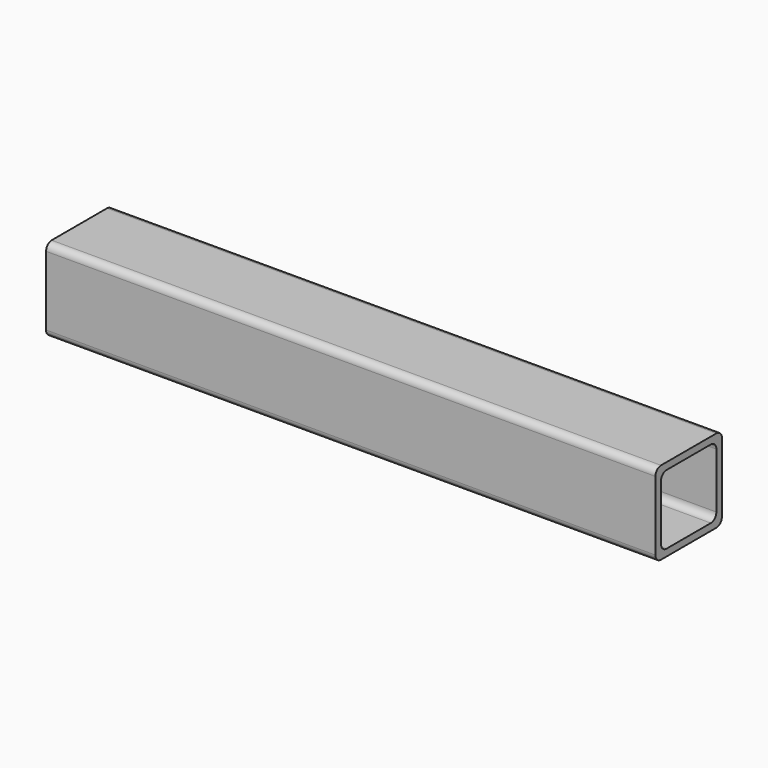
from build123d import *

# Parameters (mm, degrees)
F1_DEPTH = 279.4


with BuildPart() as f1:
    # F0 (on Right) → F1 (new body)
    with BuildSketch(Plane.YZ):
        with BuildLine():
            ThreePointArc((19.05, 15.875), (18.120064, 18.120064), (15.875, 19.05))
            Line((15.875, 19.05), (-15.875, 19.05))
            ThreePointArc((-15.875, 19.05), (-18.120064, 18.120064), (-19.05, 15.875))
            Line((-19.05, 15.875), (-19.05, -15.875))
            ThreePointArc((-19.05, -15.875), (-18.120064, -18.120064), (-15.875, -19.05))
            Line((-15.875, -19.05), (15.875, -19.05))
            ThreePointArc((15.875, -19.05), (18.120064, -18.120064), (19.05, -15.875))
            Line((19.05, -15.875), (19.05, 15.875))
        make_face()
        with BuildLine():
            Line((-12.7, 15.875), (12.7, 15.875))
            ThreePointArc((12.7, 15.875), (14.945064, 14.945064), (15.875, 12.7))
            Line((15.875, 12.7), (15.875, -12.7))
            ThreePointArc((15.875, -12.7), (14.945064, -14.945064), (12.7, -15.875))
            Line((12.7, -15.875), (-12.7, -15.875))
            ThreePointArc((-12.7, -15.875), (-14.945064, -14.945064), (-15.875, -12.7))
            Line((-15.875, -12.7), (-15.875, 12.7))
            ThreePointArc((-15.875, 12.7), (-14.945064, 14.945064), (-12.7, 15.875))
        make_face(mode=Mode.SUBTRACT)
    extrude(amount=F1_DEPTH)


solid = f1.part
